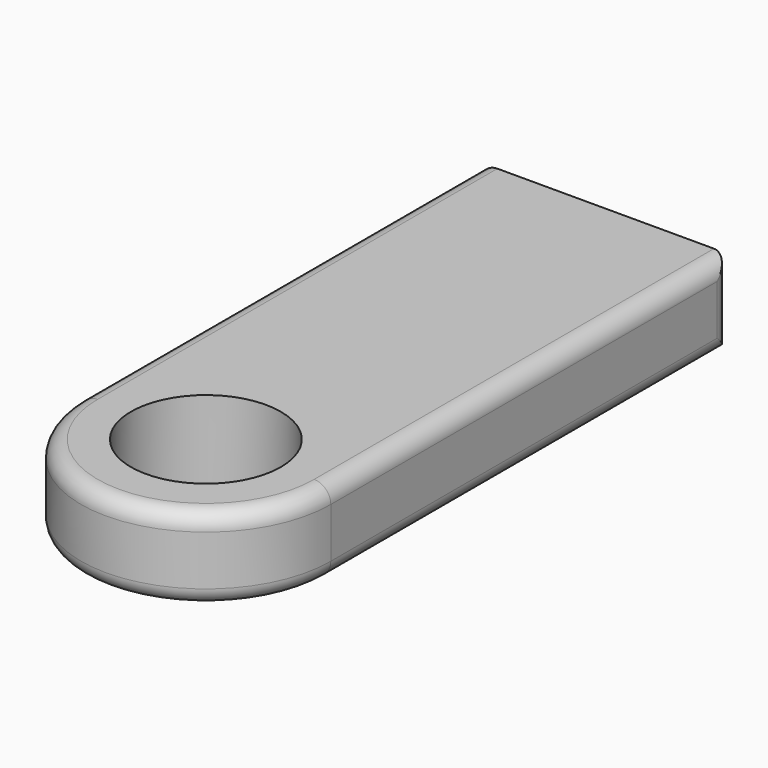
from build123d import *

# Parameters (mm, degrees)
F0_R     = 4.5
F1_DEPTH = 5
F2_R     = 1


with BuildPart() as f1:
    # F0 (on Top) → F1 (new body)
    with BuildSketch(Plane.XY):
        with BuildLine():
            Line((7.5, 11.209677), (-7.5, 11.209677))
            Line((-7.5, 11.209677), (-7.5, -18.790323))
            ThreePointArc((-7.5, -18.790323), (0, -26.290323), (7.5, -18.790323))
            Line((7.5, -18.790323), (7.5, 11.209677))
        make_face()
        with Locations((0, -18.790323)):
            Circle(F0_R, mode=Mode.SUBTRACT)
    extrude(amount=F1_DEPTH)

    # F2
    f2_edges = [f1.edges().sort_by_distance(p)[0] for p in [
        (7.5, -18.790323, 2.5),
        (7.5, 11.209677, 2.5),
        (7.5, -3.790323, 0),
        (7.5, -3.790323, 5),
    ]]
    fillet(f2_edges, radius=F2_R)


solid = f1.part
